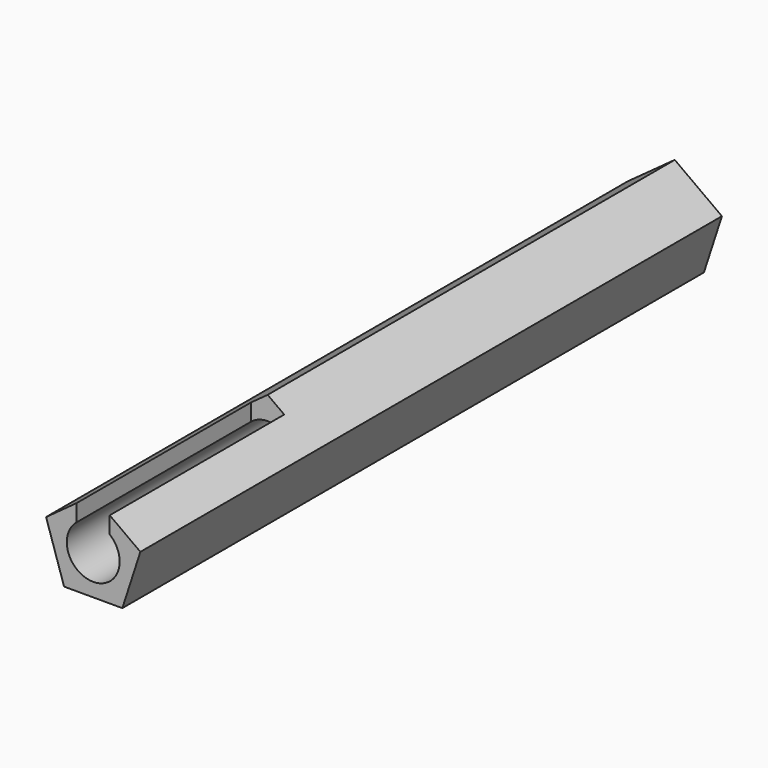
from build123d import *

# Parameters (mm, degrees)
F0_R     = 5
F3_DEPTH = 110
F5_DEPTH = 33


with BuildPart() as f2:
    # F1 (on Right) → F2 (revolve)
    with BuildSketch(Plane.YZ):
        Polygon((0, 5.5), (0, 4), (95, 4), (110, 1.5), (110, 5.5), (95, 5.5), align=None)
    revolve(axis=Axis((0, 47.5, 0), (0, 1, 0)))

    # F0 (on Front) → F3 (join)
    with BuildSketch(Plane.XZ):
        Polygon((4.4083893922, -6.0676274578), (7.1329238722, 2.3176274578), (0, 7.5), (-7.1329238722, 2.3176274578), (-4.4083893922, -6.0676274578), align=None)
        Circle(F0_R, mode=Mode.SUBTRACT)
    extrude(amount=-F3_DEPTH)

    # F4 (on face) → F5 (cut)
    with BuildSketch(Plane.XZ):
        with BuildLine():
            Line((-2.5, 5.68364368), (-2.5, 3.1224989992))
            ThreePointArc((-2.5, 3.1224989992), (-1.3247648854, 3.7742546282), (0, 4))
            Line((0, 4), (0, 7.5))
            Line((0, 7.5), (-2.5, 5.68364368))
        make_face()
        with BuildLine():
            ThreePointArc((0, 4), (1.3247648854, 3.7742546282), (2.5, 3.1224989992))
            Line((2.5, 3.1224989992), (2.5, 5.68364368))
            Line((2.5, 5.68364368), (0, 7.5))
            Line((0, 7.5), (0, 4))
        make_face()
    extrude(amount=-F5_DEPTH, mode=Mode.SUBTRACT)


solid = f2.part
